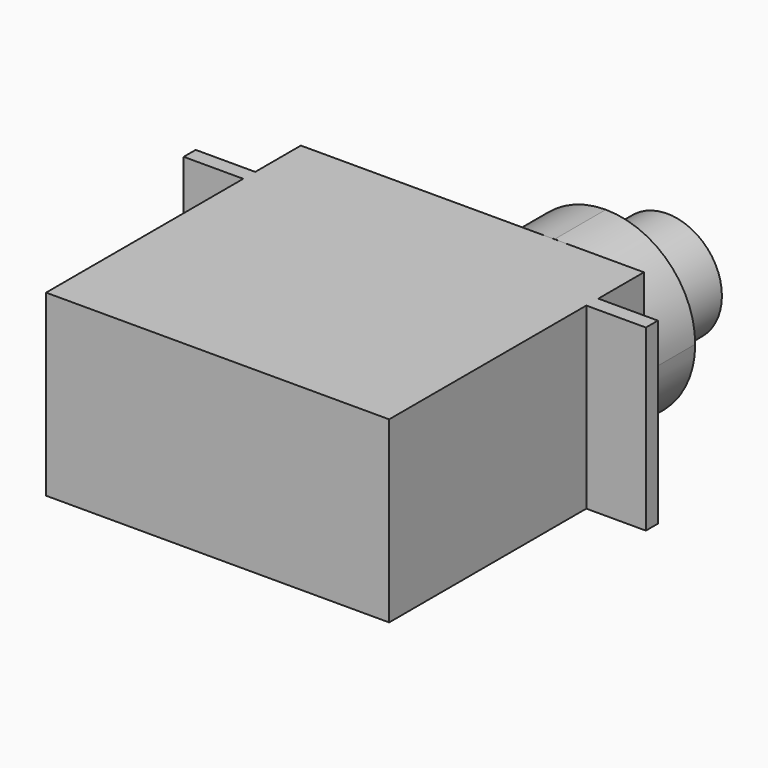
from build123d import *

# Parameters (mm, degrees)
F0_W     = 22.87
F0_H     = 3.8
F0_H_2   = 1
F0_W_2   = 3.97
F0_H_3   = 16.43
F3_DEPTH = 11.92
F2_R     = 3.645
F4_DEPTH = 9.37
F5_DEPTH = 4.25


with BuildPart() as f3:
    # F0 (on Top) → F3 (new body)
    with BuildSketch(Plane.XY):
        with Locations((-48.424922, 11.030439)):
            Rectangle(F0_W, F0_H)
        with Locations((-48.424922, 8.630439)):
            Rectangle(F0_W, F0_H_2)
        with Locations((-35.004922, 8.630439)):
            Rectangle(F0_W_2, F0_H_2)
        with Locations((-61.844922, 8.630439)):
            Rectangle(F0_W_2, F0_H_2)
        with Locations((-48.424922, -0.084561)):
            Rectangle(F0_W, F0_H_3)
    extrude(amount=-F3_DEPTH)


with BuildPart() as f4:
    # F2 (on offset) → F4 (new body)
    with BuildSketch(Plane.XZ.offset(-12.954)):
        with Locations((-42.949922, -5.96)):
            Circle(F2_R)
    extrude(amount=-F4_DEPTH)

    # F2 (on offset) → F5 (join)
    with BuildSketch(Plane.XZ.offset(-12.954)):
        with BuildLine():
            ThreePointArc((-42.949922, -11.92), (-38.735566, -10.174356), (-36.989922, -5.96))
            ThreePointArc((-36.989922, -5.96), (-38.735566, -1.745644), (-42.949922, 0))
            ThreePointArc((-42.949922, 0), (-48.909922, -5.96), (-42.949922, -11.92))
        make_face()
        with Locations((-42.949922, -5.96)):
            Circle(F2_R, mode=Mode.SUBTRACT)
    extrude(amount=-F5_DEPTH)


solid = Compound([f3.part, f4.part])
